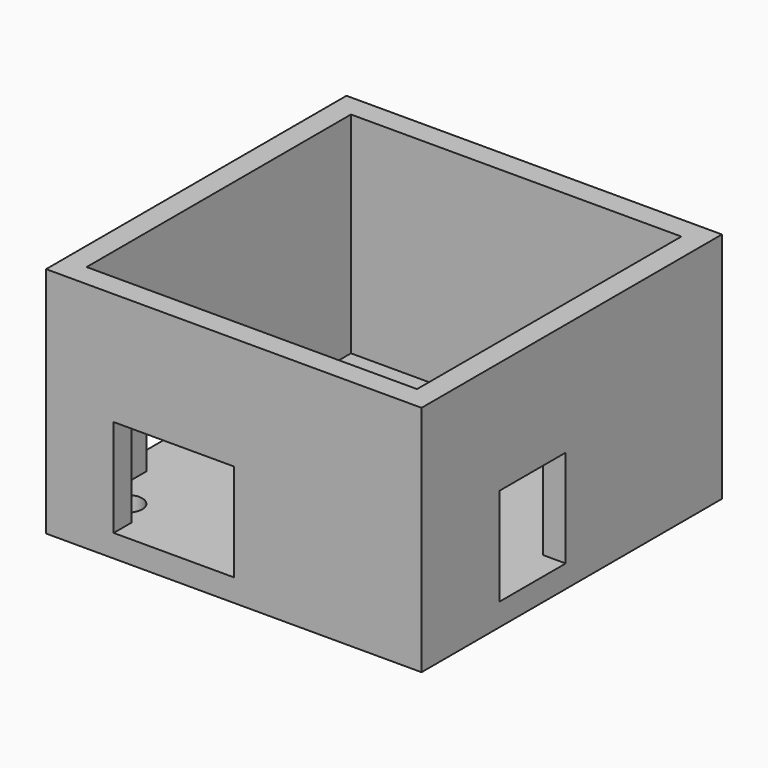
from build123d import *

# Parameters (mm, degrees)
CYLINDER_R     = 2
CYLINDER_DEPTH = 10
BOX003_W       = 10
BOX003_H       = 11
BOX003_DEPTH   = 13
BOX002_W       = 16
BOX002_H       = 10
BOX002_DEPTH   = 13
BOX001_W       = 44
BOX001_H       = 44
BOX001_DEPTH   = 29
BOX_W          = 50
BOX_H          = 50
BOX_DEPTH      = 31


with BuildPart() as cylinder:
    # Cylinder → Cylinder (new body)
    with BuildSketch(Plane(origin=(6, 6, -1), x_dir=(1, 0, 0), z_dir=(0, 0, 1))):
        Circle(CYLINDER_R)
    extrude(amount=CYLINDER_DEPTH)


with BuildPart() as cylinder001:
    # Link001 base: copy of Cylinder
    add(cylinder.part)


with BuildPart() as cylinder001_1:
    # Link001 placement: moved
    add(cylinder001.part.moved(Location((37, 37, 0))))


with BuildPart() as cube003:
    # Box003 → Box003 (new body)
    with BuildSketch(Plane(origin=(-3, 13, 3), x_dir=(1, 0, 0), z_dir=(0, 0, 1))):
        with Locations((5, 5.5)):
            Rectangle(BOX003_W, BOX003_H)
    extrude(amount=BOX003_DEPTH)


with BuildPart() as cube004:
    # Link base: copy of Cube003
    add(cube003.part)


with BuildPart() as cube004_1:
    # Link placement: moved
    add(cube004.part.moved(Location((47, 0, 0))))


with BuildPart() as cube002:
    # Box002 → Box002 (new body)
    with BuildSketch(Plane(origin=(9, -7, 3), x_dir=(1, 0, 0), z_dir=(0, 0, 1))):
        with Locations((8, 5)):
            Rectangle(BOX002_W, BOX002_H)
    extrude(amount=BOX002_DEPTH)


with BuildPart() as cube001:
    # Box001 → Box001 (new body)
    with BuildSketch(Plane(origin=(3, 3, 3), x_dir=(1, 0, 0), z_dir=(0, 0, 1))):
        with Locations((22, 22)):
            Rectangle(BOX001_W, BOX001_H)
    extrude(amount=BOX001_DEPTH)


with BuildPart() as cut005:
    # Box → Box (new body)
    with BuildSketch(Plane.XY):
        with Locations((25, 25)):
            Rectangle(BOX_W, BOX_H)
    extrude(amount=BOX_DEPTH)

    # Cut: cut Cube001
    add(cube001.part, mode=Mode.SUBTRACT)

    # Cut001: cut Cube002
    add(cube002.part, mode=Mode.SUBTRACT)

    # Cut002: cut Cube003
    add(cube003.part, mode=Mode.SUBTRACT)

    # Cut003: cut Cube004
    add(cube004_1.part, mode=Mode.SUBTRACT)

    # Cut004: cut Cylinder
    add(cylinder.part, mode=Mode.SUBTRACT)

    # Cut005: cut Cylinder001
    add(cylinder001_1.part, mode=Mode.SUBTRACT)


solid = cut005.part
